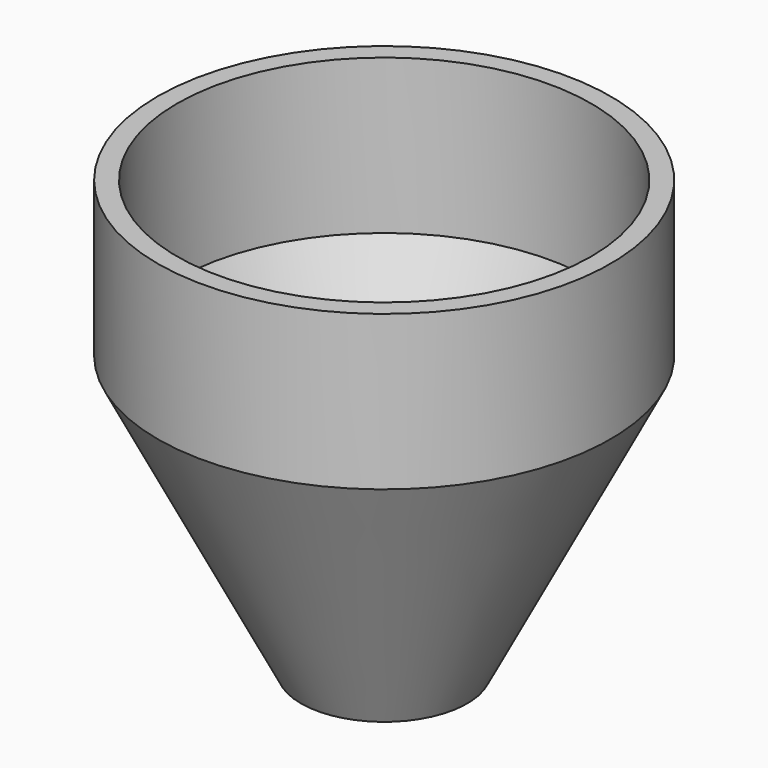
from build123d import *

# Parameters (mm, degrees)
F3_R     = 1.6
F4_DEPTH = 3.71382
F4_TAPER = 17


with BuildPart() as f1:
    # F0 (on Front) → F1 (revolve)
    with BuildSketch(Plane.XZ):
        Polygon((-0.6425, 0), (-0.4925, 0), (-1.6, 2.1580424985), (-1.6, 3.3513910467), (-1.75, 3.3513910467), (-1.75, 2.1580424985), align=None)
    revolve(axis=Axis((0, 0, 1.6756955233), (0, 0, 1)))

    # F3 (on offset) → F4 (cut, through all)
    with BuildSketch(Plane.XY.offset(3.71282)):
        Circle(F3_R)
    extrude(amount=-F4_DEPTH, taper=F4_TAPER, mode=Mode.SUBTRACT)


solid = f1.part
